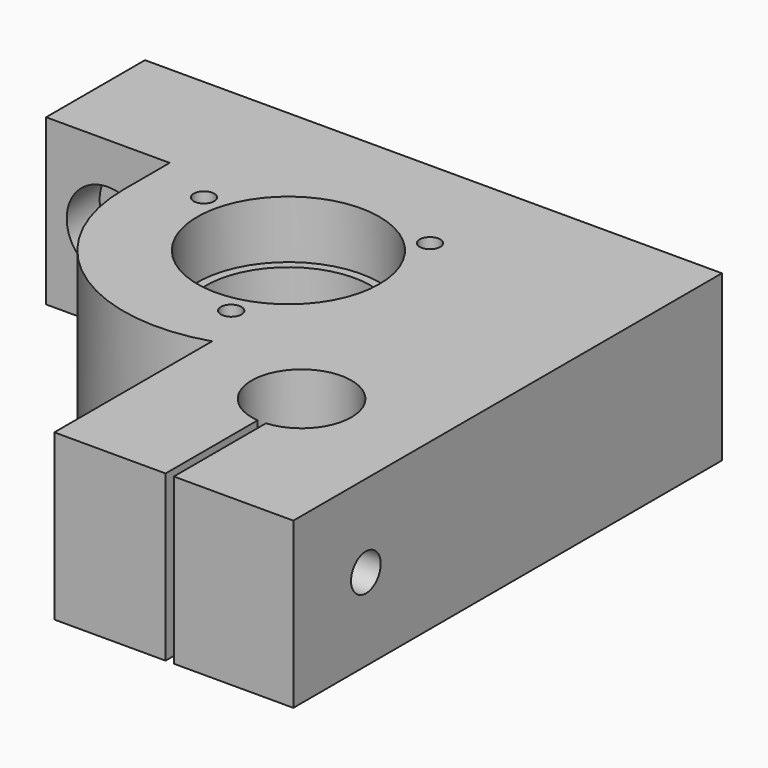
from build123d import *

# Parameters (mm, degrees)
PAD_DEPTH       = 20
SKETCH006_R     = 10
POCKET_DEPTH    = 20.001
SKETCH005_R     = 11.05
POCKET001_DEPTH = 7
SKETCH002_R     = 2.25
POCKET002_DEPTH = 65.001
SKETCH003_R     = 5
POCKET003_DEPTH = 5
SKETCH007_R     = 2.25
POCKET004_DEPTH = 70.001
SKETCH008_R     = 5
POCKET005_DEPTH = 5
SKETCH009_R     = 11.05
POCKET006_DEPTH = 7
SKETCH010_R     = 6.05
POCKET007_DEPTH = 20.001
SKETCH011_W     = 1
SKETCH011_H     = 25
POCKET008_DEPTH = 20.001
SKETCH012_R     = 1.25
POCKET009_DEPTH = 20.001


with BuildPart() as part:
    # Sketch → Pad (new body)
    with BuildSketch(Plane.XY):
        with BuildLine():
            Line((-35, 22), (35, 22))
            Line((35, -43), (35, 22))
            Line((6, -43), (35, -43))
            Line((6, -43), (6, -19.078784))
            ThreePointArc((-20, 0), (-11.83216, -16.124515), (6, -19.078784))
            Line((-20, 0), (-20, 7))
            Line((-20, 7), (-35, 7))
            Line((-35, 7), (-35, 22))
        make_face()
    extrude(amount=PAD_DEPTH)

    # Sketch006 → Pocket (cut, through all)
    with BuildSketch(Plane(origin=(0, 0, 0), x_dir=(1, 0, 0), z_dir=(0, 0, -1))):
        Circle(SKETCH006_R)
    extrude(amount=-POCKET_DEPTH, mode=Mode.SUBTRACT)

    # Sketch005 → Pocket001 (cut)
    with BuildSketch(Plane.XY.offset(20)):
        Circle(SKETCH005_R)
    extrude(amount=-POCKET001_DEPTH, mode=Mode.SUBTRACT)

    # Sketch002 → Pocket002 (cut, through all)
    with BuildSketch(Plane(origin=(0, 22, 0), x_dir=(-1, 0, 0), z_dir=(0, 1, 0))):
        with Locations((27.5, 10)):
            Circle(SKETCH002_R)
    extrude(amount=-POCKET002_DEPTH, mode=Mode.SUBTRACT)

    # Sketch003 → Pocket003 (cut)
    with BuildSketch(Plane.XZ.offset(-7)):
        with Locations((-27.5, 10)):
            Circle(SKETCH003_R)
    extrude(amount=-POCKET003_DEPTH, mode=Mode.SUBTRACT)

    # Sketch007 → Pocket004 (cut, through all)
    with BuildSketch(Plane.YZ.offset(35)):
        with Locations((-32, 10)):
            Circle(SKETCH007_R)
    extrude(amount=-POCKET004_DEPTH, mode=Mode.SUBTRACT)

    # Sketch008 → Pocket005 (cut)
    with BuildSketch(Plane(origin=(6, 0, 0), x_dir=(0, -1, 0), z_dir=(-1, 0, 0))):
        with Locations((32, 10)):
            Circle(SKETCH008_R)
    extrude(amount=-POCKET005_DEPTH, mode=Mode.SUBTRACT)

    # Sketch009 → Pocket006 (cut)
    with BuildSketch(Plane(origin=(0, 0, 0), x_dir=(1, 0, 0), z_dir=(0, 0, -1))):
        Circle(SKETCH009_R)
    extrude(amount=-POCKET006_DEPTH, mode=Mode.SUBTRACT)

    # Sketch010 → Pocket007 (cut, through all)
    with BuildSketch(Plane.XY.offset(20)):
        with Locations((20, -23)):
            Circle(SKETCH010_R)
    extrude(amount=-POCKET007_DEPTH, mode=Mode.SUBTRACT)

    # Sketch011 → Pocket008 (cut, through all)
    with BuildSketch(Plane.XY.offset(20)):
        with Locations((20, -32.5)):
            Rectangle(SKETCH011_W, SKETCH011_H)
    extrude(amount=-POCKET008_DEPTH, mode=Mode.SUBTRACT)

    # Sketch012 → Pocket009 (cut, through all)
    with BuildSketch(Plane.XY.offset(20)):
        with Locations((9.545942, 9.545942)):
            Circle(SKETCH012_R)
        with Locations((-13.039999, 3.494057)):
            Circle(SKETCH012_R)
        with Locations((3.494057, -13.039999)):
            Circle(SKETCH012_R)
    extrude(amount=-POCKET009_DEPTH, mode=Mode.SUBTRACT)


solid = part.part
